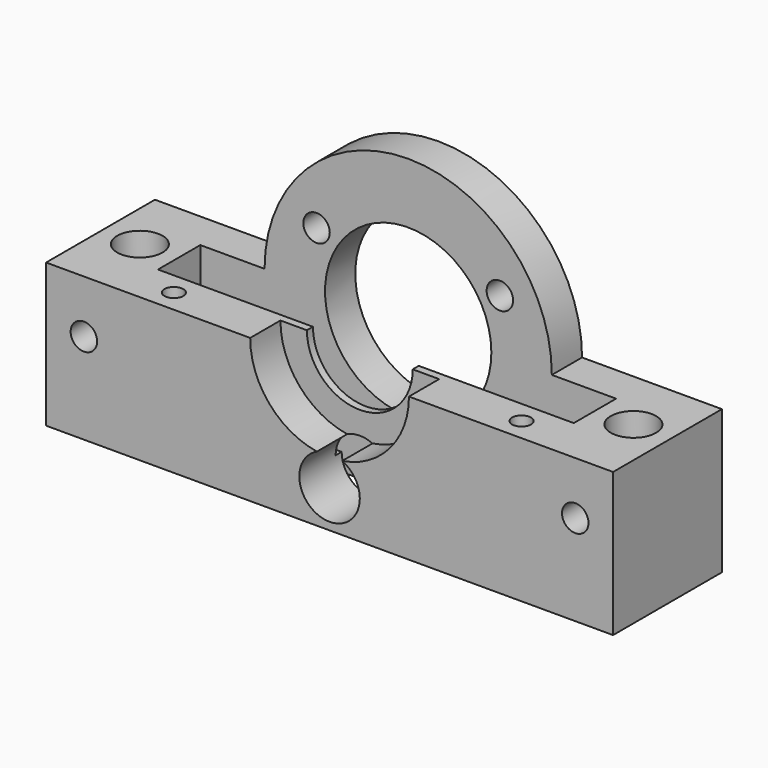
from build123d import *

# Parameters (mm, degrees)
SKETCH_W        = 75
SKETCH_H        = 18
PAD_DEPTH       = 5
SKETCH001_W     = 50
SKETCH001_H     = 4
POCKET_DEPTH    = 5.001
SKETCH002_W     = 75
SKETCH002_H     = 5
PAD001_DEPTH    = 38
POCKET001_DEPTH = 5
SKETCH004_R     = 11
POCKET002_DEPTH = 5.001
SKETCH005_R     = 10.5
PAD002_DEPTH    = 6
SKETCH006_W     = 10
SKETCH006_H     = 18
PAD003_DEPTH    = 14
SKETCH007_R     = 3
POCKET003_DEPTH = 15
SKETCH008_R     = 16
SKETCH008_R_2   = 7
PAD004_DEPTH    = 1
SKETCH009_R     = 1.75
POCKET004_DEPTH = 18.001
SKETCH010_R     = 4
POCKET005_DEPTH = 8
SKETCH011_R     = 1.75
POCKET006_DEPTH = 18.001
SKETCH012_W     = 100
SKETCH012_H     = 30
POCKET007_DEPTH = 6
SKETCH013_R     = 1.25
HOLE_DEPTH      = 25


with BuildPart() as part:
    # Sketch → Pad (new body)
    with BuildSketch(Plane.XY):
        with Locations((37.5, 9)):
            Rectangle(SKETCH_W, SKETCH_H)
    extrude(amount=PAD_DEPTH)

    # Sketch001 (on Face6 of Pad) → Pocket (cut, through all)
    with BuildSketch(Plane.XY.offset(5)):
        with Locations((37.5, 9)):
            Rectangle(SKETCH001_W, SKETCH001_H)
    extrude(amount=-POCKET_DEPTH, mode=Mode.SUBTRACT)

    # Sketch002 (on Face5 of Pocket) → Pad001 (join)
    with BuildSketch(Plane.XY.offset(5)):
        with Locations((37.5, 15.5)):
            Rectangle(SKETCH002_W, SKETCH002_H)
    extrude(amount=PAD001_DEPTH)

    # Sketch003 (on Face13 of Pad001) → Pocket001 (cut)
    with BuildSketch(Plane.XZ.offset(-13)):
        with BuildLine():
            ThreePointArc((56.5, 19), (37.5, 38), (18.5, 19))
            Line((18.5, 19), (-1.5, 19))
            Line((-1.5, 19), (-1.5, 49))
            Line((-1.5, 49), (76.5, 49))
            Line((76.5, 49), (76.5, 19))
            Line((76.5, 19), (56.5, 19))
        make_face()
    extrude(amount=-POCKET001_DEPTH, mode=Mode.SUBTRACT)

    # Sketch004 → Pocket002 (cut, through all)
    with BuildSketch(Plane.XZ.offset(-13)):
        with Locations((37.5, 19)):
            Circle(SKETCH004_R)
    extrude(amount=-POCKET002_DEPTH, mode=Mode.SUBTRACT)

    # Sketch005 (on Face1 of Pocket002) → Pad002 (join)
    with BuildSketch(Plane.XZ):
        with BuildLine():
            Line((56.5, 19), (75, 19))
            Line((75, 19), (75, 0))
            Line((75, 0), (0, 0))
            Line((0, 0), (0, 19))
            Line((0, 19), (18.5, 19))
            ThreePointArc((56.5, 19), (37.5, 38), (18.5, 19))
        make_face()
        with Locations((37.5, 19)):
            Circle(SKETCH005_R, mode=Mode.SUBTRACT)
    extrude(amount=-PAD002_DEPTH)

    # Sketch006 (on Face8 of Pad002) → Pad003 (join)
    with BuildSketch(Plane.XY.offset(5)):
        with Locations((5, 9)):
            Rectangle(SKETCH006_W, SKETCH006_H)
        with Locations((70, 9)):
            Rectangle(SKETCH006_W, SKETCH006_H)
    extrude(amount=PAD003_DEPTH)

    # Sketch007 (on Face23 of Pad003) → Pocket003 (cut)
    with BuildSketch(Plane.XY.offset(19)):
        with Locations((5, 9.260643)):
            Circle(SKETCH007_R)
        with Locations((70, 9.622806)):
            Circle(SKETCH007_R)
    extrude(amount=-POCKET003_DEPTH, mode=Mode.SUBTRACT)

    # Sketch008 (on Face35 of Pad003) → Pad004 (join)
    with BuildSketch(Plane(origin=(0, 6, 0), x_dir=(-1, 0, 0), z_dir=(0, 1, 0))):
        with Locations((-37.5, 19)):
            Circle(SKETCH008_R)
        with Locations((-37.5, 19)):
            Circle(SKETCH008_R_2, mode=Mode.SUBTRACT)
    extrude(amount=-PAD004_DEPTH)

    # Sketch009 (on Face31 of Pad004) → Pocket004 (cut, through all)
    with BuildSketch(Plane.XZ):
        with Locations((5, 12)):
            Circle(SKETCH009_R)
        with Locations((70, 12)):
            Circle(SKETCH009_R)
    extrude(amount=-POCKET004_DEPTH, mode=Mode.SUBTRACT)

    # Sketch010 (on Face34 of Pocket004) → Pocket005 (cut)
    with BuildSketch(Plane.XZ):
        with Locations((37.5, 5)):
            Circle(SKETCH010_R)
        with Locations((25.375644, 26)):
            Circle(SKETCH010_R)
        with Locations((49.624356, 26)):
            Circle(SKETCH010_R)
    extrude(amount=-POCKET005_DEPTH, mode=Mode.SUBTRACT)

    # Sketch011 (on Face34 of Pocket005) → Pocket006 (cut, through all)
    with BuildSketch(Plane.XZ):
        with Locations((25.375644, 26)):
            Circle(SKETCH011_R)
        with Locations((37.5, 5)):
            Circle(SKETCH011_R)
        with Locations((49.624356, 26)):
            Circle(SKETCH011_R)
    extrude(amount=-POCKET006_DEPTH, mode=Mode.SUBTRACT)

    # Sketch012 (on Face40 of Pocket006) → Pocket007 (cut)
    with BuildSketch(Plane.XZ):
        with Locations((50, 34)):
            Rectangle(SKETCH012_W, SKETCH012_H)
    extrude(amount=-POCKET007_DEPTH, mode=Mode.SUBTRACT)

    # Sketch013 (on Face60 of Pocket007) → Hole (cut)
    with BuildSketch(Plane.XY.offset(19)):
        with Locations((14.5, 3)):
            Circle(SKETCH013_R)
        with Locations((60.5, 3)):
            Circle(SKETCH013_R)
    extrude(amount=-HOLE_DEPTH, mode=Mode.SUBTRACT)


solid = part.part
